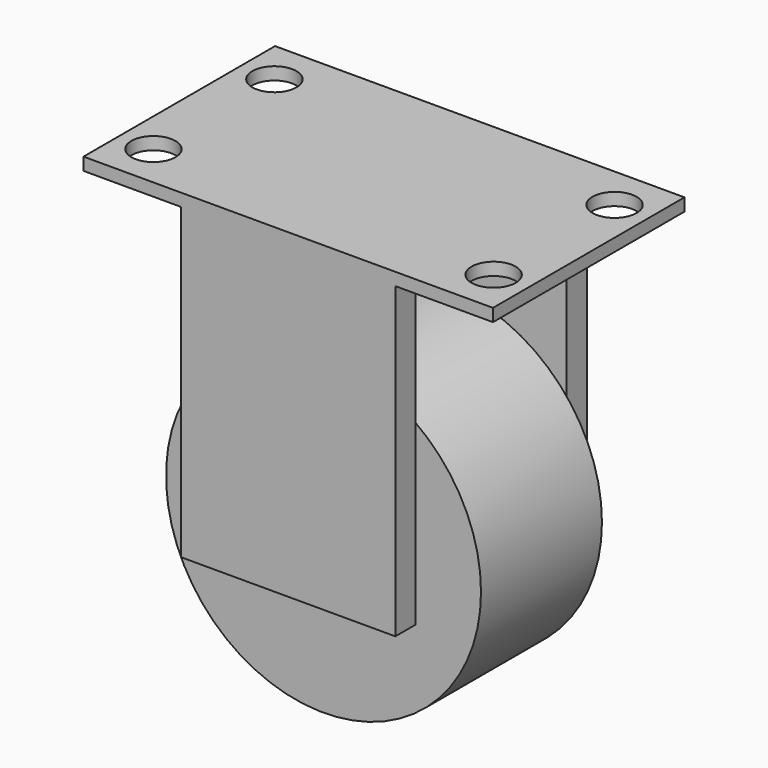
from build123d import *

# Parameters (mm, degrees)
F0_W           = 65
F0_H           = 38
F1_DEPTH       = 2
F2_W           = 34
F2_H           = 4
F3_DEPTH       = 48.95
F5_R           = 3.5
F6_DEPTH       = 3000
F4_R           = 25
F7_DEPTH       = 12
F9_R           = 3
F10_DEPTH      = 38
F11_R          = 25
F12_DEPTH      = 12
F12_DEPTH_BACK = 12


with BuildPart() as f1:
    # F0 (on Top) → F1 (new body)
    with BuildSketch(Plane.XY):
        Rectangle(F0_W, F0_H)
    extrude(amount=F1_DEPTH)

    # F2 (on face) → F3 (join)
    with BuildSketch(Plane(origin=(0, 0, 0), x_dir=(1, 0, 0), z_dir=(0, 0, -1))):
        with Locations((0, 17)):
            Rectangle(F2_W, F2_H)
        with Locations((0, -17)):
            Rectangle(F2_W, F2_H)
    extrude(amount=F3_DEPTH)

    # F5 (on face) → F6 (cut)
    with BuildSketch(Plane.XY.offset(2)):
        with Locations((27, 12)):
            Circle(F5_R)
        with Locations((27, -12)):
            Circle(F5_R)
        with Locations((-27, -12)):
            Circle(F5_R)
        with Locations((-27, 12)):
            Circle(F5_R)
    extrude(amount=-F6_DEPTH, mode=Mode.SUBTRACT)

    # F9 (on face) → F10 (join)
    with BuildSketch(Plane(origin=(0, 19, 0), x_dir=(-1, 0, 0), z_dir=(0, 1, 0))):
        with Locations((0, -43)):
            Circle(F9_R)
    extrude(amount=-F10_DEPTH)

    # F11 (on Front) → F12 (join, two sides)
    with BuildSketch(Plane.XZ) as f12_sk:
        with Locations((0, -43)):
            Circle(F11_R)
    extrude(amount=F12_DEPTH)
    extrude(f12_sk.sketch, amount=-F12_DEPTH_BACK)


with BuildPart() as f7:
    # F4 (on Front) → F7 (new body, symmetric)
    with BuildSketch(Plane.XZ):
        with Locations((0, -43)):
            Circle(F4_R)
    extrude(amount=F7_DEPTH, both=True)


solid = f1.part
